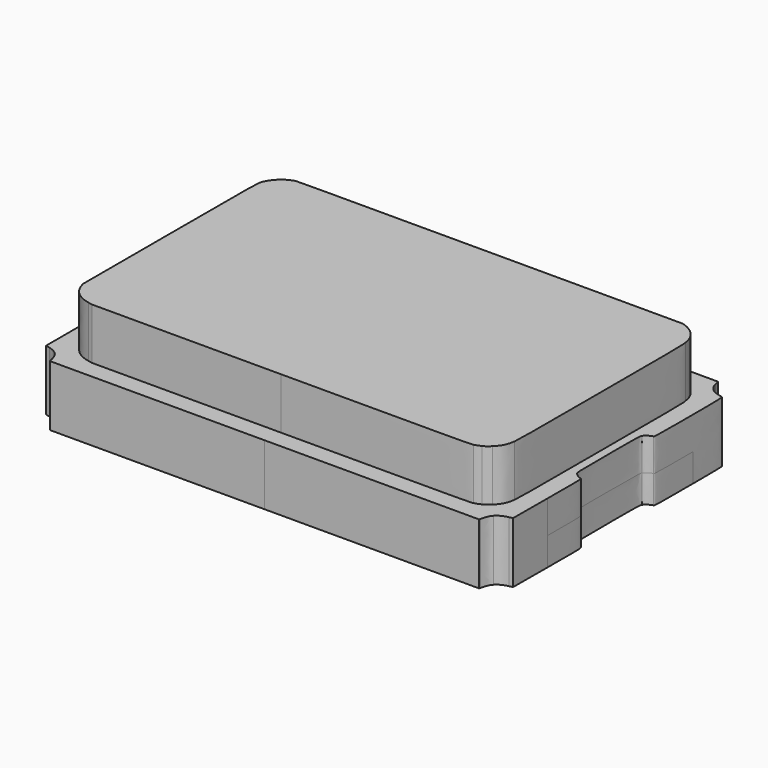
from build123d import *

# Parameters (mm, degrees)
PAD002_DEPTH = 0.3
PAD_DEPTH    = 0.65
PAD001_DEPTH = 0.55
PAD003_DEPTH = 0.3


with BuildPart() as pad1_bounds:
    # Sketch004 → Pad002 (new body)
    with BuildSketch(Plane(origin=(0, 0, 0), x_dir=(-1, 0, 0), z_dir=(0, 0, 1))):
        with BuildLine():
            add(Edge.make_bspline(
                [(0.034649, 1.597406), (0.033082, 0.595889)],
                knots=[0, 0, 1.005564, 1.005564], degree=1))
            add(Edge.make_bspline(
                [(0.033082, 0.595889), (-0.46027, 0.596657)],
                knots=[0, 0, 0.460129, 0.460129], degree=1))
            add(Edge.make_bspline(
                [(-0.46027, 0.596657), (-0.9204, 0.596657)],
                knots=[0, 0, 0.46013, 0.46013], degree=1))
            add(Edge.make_bspline(
                [(-0.9204, 0.596657), (-1.053663, 0.728174)],
                knots=[0, 0, 0.187232, 0.187232], degree=1))
            add(Edge.make_bspline(
                [(-1.053663, 0.728174), (-1.126963, 0.800504), (-1.218254, 0.890427), (-1.256543, 0.927996)],
                knots=[0, 0, 0, 0, 1, 1, 1, 1], degree=3))
            add(Edge.make_bspline(
                [(-1.256543, 0.927996), (-1.326163, 0.996306)],
                knots=[0, 0, 0.097536, 0.097536], degree=1))
            add(Edge.make_bspline(
                [(-1.326163, 0.996306), (-1.326163, 1.799365)],
                knots=[0, 0, 0.803059, 0.803059], degree=1))
            add(Edge.make_bspline(
                [(-1.326163, 1.799365), (-1.326163, 2.527572), (-1.325511, 2.602673), (-1.319163, 2.605106)],
                knots=[0, 0, 0, 0, 1, 1, 1, 1], degree=3))
            add(Edge.make_bspline(
                [(-1.319163, 2.605106), (-1.315363, 2.606606), (-1.016964, 2.607806), (-0.656155, 2.607806)],
                knots=[0, 0, 0, 0, 1, 1, 1, 1], degree=3))
            add(Edge.make_bspline(
                [(-0.656155, 2.607806), (0.032878, 2.606198)],
                knots=[0, 0, 0.656018, 0.656018], degree=1))
            add(Edge.make_bspline(
                [(0.032878, 2.606198), (0.034649, 1.597406)],
                knots=[0, 0, 1.005585, 1.005585], degree=1))
        make_face()
    extrude(amount=PAD002_DEPTH)


with BuildPart() as body005:
    # Body005 base: copy of pad1_bounds
    add(pad1_bounds.part)


with BuildPart() as body_bounds:
    # Sketch → Pad (new body)
    with BuildSketch(Plane.XY):
        with BuildLine():
            add(Edge.make_bspline(
                [(0.19061, -3.162751), (0.17461, -3.081221), (0.12791, -3.033016), (0.0455, -3.012754)],
                knots=[0, 0, 0, 0, 1, 1, 1, 1], degree=3))
            add(Edge.make_bspline(
                [(0.0455, -3.012754), (0, -3.001574)],
                knots=[0, 0, 0.046853, 0.046853], degree=1))
            add(Edge.make_bspline(
                [(0, -3.001574), (0, -2.545794)],
                knots=[0, 0, 0.45578, 0.45578], degree=1))
            add(Edge.make_bspline(
                [(0, -2.545794), (0, -2.090014)],
                knots=[0, 0, 0.45578, 0.45578], degree=1))
            add(Edge.make_bspline(
                [(0, -2.090014), (0.0327, -2.077814)],
                knots=[0, 0, 0.034902, 0.034902], degree=1))
            add(Edge.make_bspline(
                [(0.0327, -2.077814), (0.0958, -2.054294), (0.0908, -2.095214), (0.0908, -1.599869)],
                knots=[0, 0, 0, 0, 1, 1, 1, 1], degree=3))
            add(Edge.make_bspline(
                [(0.0908, -1.599869), (0.0908, -1.104523), (0.0958, -1.145442), (0.0327, -1.121923)],
                knots=[0, 0, 0, 0, 1, 1, 1, 1], degree=3))
            add(Edge.make_bspline(
                [(0.0327, -1.121923), (0, -1.109723)],
                knots=[0, 0, 0.034902, 0.034902], degree=1))
            add(Edge.make_bspline(
                [(0, -1.109723), (0, -0.653881)],
                knots=[0, 0, 0.455842, 0.455842], degree=1))
            add(Edge.make_bspline(
                [(0, -0.653881), (0, -0.19804)],
                knots=[0, 0, 0.455841, 0.455841], degree=1))
            add(Edge.make_bspline(
                [(0, -0.19804), (0.0188, -0.19354)],
                knots=[0, 0, 0.019331, 0.019331], degree=1))
            add(Edge.make_bspline(
                [(0.0188, -0.19354), (0.0291, -0.19104), (0.0477, -0.18734), (0.0602, -0.18524)],
                knots=[0, 0, 0, 0, 1, 1, 1, 1], degree=3))
            add(Edge.make_bspline(
                [(0.0602, -0.18524), (0.0918, -0.17984), (0.1379, -0.1476), (0.16, -0.11542)],
                knots=[0, 0, 0, 0, 1, 1, 1, 1], degree=3))
            add(Edge.make_bspline(
                [(0.16, -0.11542), (0.1709, -0.09964), (0.1829, -0.06973), (0.1887, -0.04412)],
                knots=[0, 0, 0, 0, 1, 1, 1, 1], degree=3))
            add(Edge.make_bspline(
                [(0.1887, -0.04412), (0.1987, 0)],
                knots=[0, 0, 0.045239, 0.045239], degree=1))
            add(Edge.make_bspline(
                [(0.1987, 0), (2.49434, -0.0016)],
                knots=[0, 0, 2.295641, 2.295641], degree=1))
            add(Edge.make_bspline(
                [(2.49434, -0.0016), (4.78999, -0.0032)],
                knots=[0, 0, 2.295651, 2.295651], degree=1))
            add(Edge.make_bspline(
                [(4.78999, -0.0032), (4.80109, -0.04556)],
                knots=[0, 0, 0.04379, 0.04379], degree=1))
            add(Edge.make_bspline(
                [(4.80109, -0.04556), (4.82259, -0.1275), (4.86839, -0.171195), (4.95126, -0.188655)],
                knots=[0, 0, 0, 0, 1, 1, 1, 1], degree=3))
            add(Edge.make_bspline(
                [(4.95126, -0.188655), (4.96946, -0.192455), (4.98796, -0.198455), (4.99226, -0.201945)],
                knots=[0, 0, 0, 0, 1, 1, 1, 1], degree=3))
            add(Edge.make_bspline(
                [(4.99226, -0.201945), (4.99826, -0.206845), (5.00026, -0.305908), (5.00026, -0.658906)],
                knots=[0, 0, 0, 0, 1, 1, 1, 1], degree=3))
            add(Edge.make_bspline(
                [(5.00026, -0.658906), (5.00026, -1.108168), (5.00022, -1.109582), (4.98736, -1.112933)],
                knots=[0, 0, 0, 0, 1, 1, 1, 1], degree=3))
            add(Edge.make_bspline(
                [(4.98736, -1.112933), (4.95636, -1.121033), (4.92136, -1.144333), (4.90956, -1.164753)],
                knots=[0, 0, 0, 0, 1, 1, 1, 1], degree=3))
            add(Edge.make_bspline(
                [(4.90956, -1.164753), (4.89716, -1.186143), (4.89686, -1.196513), (4.89686, -1.599944)],
                knots=[0, 0, 0, 0, 1, 1, 1, 1], degree=3))
            add(Edge.make_bspline(
                [(4.89686, -1.599944), (4.89686, -2.003379), (4.89716, -2.01374), (4.90956, -2.035135)],
                knots=[0, 0, 0, 0, 1, 1, 1, 1], degree=3))
            add(Edge.make_bspline(
                [(4.90956, -2.035135), (4.92136, -2.055565), (4.95636, -2.078835), (4.98736, -2.086965)],
                knots=[0, 0, 0, 0, 1, 1, 1, 1], degree=3))
            add(Edge.make_bspline(
                [(4.98736, -2.086965), (5.00026, -2.090365), (5.00026, -2.090565), (4.99866, -2.546173)],
                knots=[0, 0, 0, 0, 1, 1, 1, 1], degree=3))
            add(Edge.make_bspline(
                [(4.99866, -2.546173), (4.99666, -3.002008)],
                knots=[0, 0, 0.455839, 0.455839], degree=1))
            add(Edge.make_bspline(
                [(4.99666, -3.002008), (4.95776, -3.009908)],
                knots=[0, 0, 0.039694, 0.039694], degree=1))
            add(Edge.make_bspline(
                [(4.95776, -3.009908), (4.90766, -3.020048), (4.87396, -3.037498), (4.84315, -3.069228)],
                knots=[0, 0, 0, 0, 1, 1, 1, 1], degree=3))
            add(Edge.make_bspline(
                [(4.84315, -3.069228), (4.81995, -3.093108), (4.81485, -3.104528), (4.79345, -3.18105)],
                knots=[0, 0, 0, 0, 1, 1, 1, 1], degree=3))
            add(Edge.make_bspline(
                [(4.79345, -3.18105), (4.78945, -3.1967)],
                knots=[0, 0, 0.016153, 0.016153], degree=1))
            add(Edge.make_bspline(
                [(4.78945, -3.1967), (2.49379, -3.1983)],
                knots=[0, 0, 2.295661, 2.295661], degree=1))
            add(Edge.make_bspline(
                [(2.49379, -3.1983), (0.19814, -3.1999)],
                knots=[0, 0, 2.295651, 2.295651], degree=1))
            add(Edge.make_bspline(
                [(0.19814, -3.1999), (0.19061, -3.162751)],
                knots=[0, 0, 0.037904, 0.037904], degree=1))
        make_face()
    extrude(amount=PAD_DEPTH)

    # Sketch001 (on Face37 of Pad) → Pad001 (join)
    with BuildSketch(Plane(origin=(5, -3.2, 0.65), x_dir=(1, 0, 0), z_dir=(0, 0, 1))):
        with BuildLine():
            add(Edge.make_bspline(
                [(-0.40175, 2.99611), (-0.32385, 2.97101), (-0.25284, 2.90531), (-0.22224, 2.82998)],
                knots=[0, 0, 0, 0, 1, 1, 1, 1], degree=3))
            add(Edge.make_bspline(
                [(-0.22224, 2.82998), (-0.21624, 2.81588), (-0.20774, 2.78188), (-0.20284, 2.75438)],
                knots=[0, 0, 0, 0, 1, 1, 1, 1], degree=3))
            add(Edge.make_bspline(
                [(-0.20284, 2.75438), (-0.19384, 2.70508), (-0.19384, 2.69028), (-0.19384, 1.60422)],
                knots=[0, 0, 0, 0, 1, 1, 1, 1], degree=3))
            add(Edge.make_bspline(
                [(-0.19384, 1.60422), (-0.19384, 0.64644), (-0.1947, 0.49861), (-0.20084, 0.46258)],
                knots=[0, 0, 0, 0, 1, 1, 1, 1], degree=3))
            add(Edge.make_bspline(
                [(-0.20084, 0.46258), (-0.21384, 0.38188), (-0.23544, 0.33823), (-0.28914, 0.28426)],
                knots=[0, 0, 0, 0, 1, 1, 1, 1], degree=3))
            add(Edge.make_bspline(
                [(-0.28914, 0.28426), (-0.31794, 0.25536), (-0.33224, 0.24486), (-0.36254, 0.23036)],
                knots=[0, 0, 0, 0, 1, 1, 1, 1], degree=3))
            add(Edge.make_bspline(
                [(-0.36254, 0.23036), (-0.38324, 0.22036), (-0.41414, 0.20876), (-0.43124, 0.20436)],
                knots=[0, 0, 0, 0, 1, 1, 1, 1], degree=3))
            add(Edge.make_bspline(
                [(-0.43124, 0.20436), (-0.46094, 0.19636), (-0.54576, 0.19636), (-2.48393, 0.19536)],
                knots=[0, 0, 0, 0, 1, 1, 1, 1], degree=3))
            add(Edge.make_bspline(
                [(-2.48393, 0.19536), (-4.50559, 0.19436)],
                knots=[0, 0, 2.02166, 2.02166], degree=1))
            add(Edge.make_bspline(
                [(-4.50559, 0.19436), (-4.55079, 0.20336)],
                knots=[0, 0, 0.046087, 0.046087], degree=1))
            add(Edge.make_bspline(
                [(-4.55079, 0.20336), (-4.66815, 0.22706), (-4.75352, 0.29966), (-4.78659, 0.40389)],
                knots=[0, 0, 0, 0, 1, 1, 1, 1], degree=3))
            add(Edge.make_bspline(
                [(-4.78659, 0.40389), (-4.79759, 0.43849)],
                knots=[0, 0, 0.036306, 0.036306], degree=1))
            add(Edge.make_bspline(
                [(-4.79759, 0.43849), (-4.79754, 1.60017)],
                knots=[0, 0, 1.16168, 1.16168], degree=1))
            add(Edge.make_bspline(
                [(-4.79754, 1.60017), (-4.79749, 2.88197), (-4.79954, 2.7799), (-4.76904, 2.84159)],
                knots=[0, 0, 0, 0, 1, 1, 1, 1], degree=3))
            add(Edge.make_bspline(
                [(-4.76904, 2.84159), (-4.73144, 2.91719), (-4.66017, 2.97732), (-4.58076, 3.00066)],
                knots=[0, 0, 0, 0, 1, 1, 1, 1], degree=3))
            add(Edge.make_bspline(
                [(-4.58076, 3.00066), (-4.55886, 3.00666), (-4.3704, 3.00766), (-2.4962, 3.00766)],
                knots=[0, 0, 0, 0, 1, 1, 1, 1], degree=3))
            add(Edge.make_bspline(
                [(-2.4962, 3.00766), (-0.4357, 3.00745)],
                knots=[0, 0, 2.0605, 2.0605], degree=1))
            add(Edge.make_bspline(
                [(-0.4357, 3.00745), (-0.4022, 2.99665)],
                knots=[0, 0, 0.035198, 0.035198], degree=1))
            add(Edge.make_bspline(
                [(-0.4022, 2.99665), (-0.40175, 2.99611)],
                knots=[0, 0, 0.000703, 0.000703], degree=1))
        make_face()
    extrude(amount=PAD001_DEPTH)


with BuildPart() as pad1:
    # Body004 base: copy of body_bounds
    add(body_bounds.part)

    # Common: intersect Body005
    add(body005.part, mode=Mode.INTERSECT)


with BuildPart() as pad2_bounds:
    # Sketch005 → Pad003 (new body)
    with BuildSketch(Plane(origin=(0, 0, 0), x_dir=(-1, 0, 0), z_dir=(0, 0, 1))):
        with BuildLine():
            add(Edge.make_bspline(
                [(-3.674095, 2.60248), (-3.669995, 2.59838), (-3.668795, 2.369002), (-3.668795, 1.596916)],
                knots=[0, 0, 0, 0, 1, 1, 1, 1], degree=3))
            add(Edge.make_bspline(
                [(-3.668795, 1.596916), (-3.668795, 0.596657)],
                knots=[0, 0, 1.000259, 1.000259], degree=1))
            add(Edge.make_bspline(
                [(-3.668795, 0.596657), (-4.334015, 0.596657)],
                knots=[0, 0, 0.66522, 0.66522], degree=1))
            add(Edge.make_bspline(
                [(-4.334015, 0.596657), (-5.033978, 0.595754)],
                knots=[0, 0, 0.665219, 0.665219], degree=1))
            add(Edge.make_bspline(
                [(-5.033978, 0.595754), (-5.03539, 1.594934)],
                knots=[0, 0, 1.005564, 1.005564], degree=1))
            add(Edge.make_bspline(
                [(-5.03539, 1.594934), (-5.037839, 2.609006)],
                knots=[0, 0, 1.005563, 1.005563], degree=1))
            add(Edge.make_bspline(
                [(-5.037839, 2.609006), (-4.339319, 2.607784)],
                knots=[0, 0, 0.659915, 0.659915], degree=1))
            add(Edge.make_bspline(
                [(-4.339319, 2.607784), (-3.831945, 2.607784), (-3.678178, 2.606584), (-3.6741, 2.602484)],
                knots=[0, 0, 0, 0, 1, 1, 1, 1], degree=3))
            add(Edge.make_bspline(
                [(-3.6741, 2.602484), (-3.674095, 2.60248)],
                knots=[0, 0, 6e-06, 6e-06], degree=1))
        make_face()
    extrude(amount=PAD003_DEPTH)


with BuildPart() as body007:
    # Body007 base: copy of pad2_bounds
    add(pad2_bounds.part)


with BuildPart() as pad2:
    # Body006 base: copy of body_bounds
    add(body_bounds.part)

    # Common001: intersect Body007
    add(body007.part, mode=Mode.INTERSECT)


with BuildPart() as pad_bounds:
    # Fusion base: copy of pad1_bounds
    add(pad1_bounds.part)

    # Fusion: union pad2_bounds
    add(pad2_bounds.part)


with BuildPart() as model:
    # Cut base: copy of body_bounds
    add(body_bounds.part)

    # Cut: cut pad_bounds
    add(pad_bounds.part, mode=Mode.SUBTRACT)

    # Fusion001: union pad1, pad2
    add(pad1.part)
    add(pad2.part)


solid = model.part
